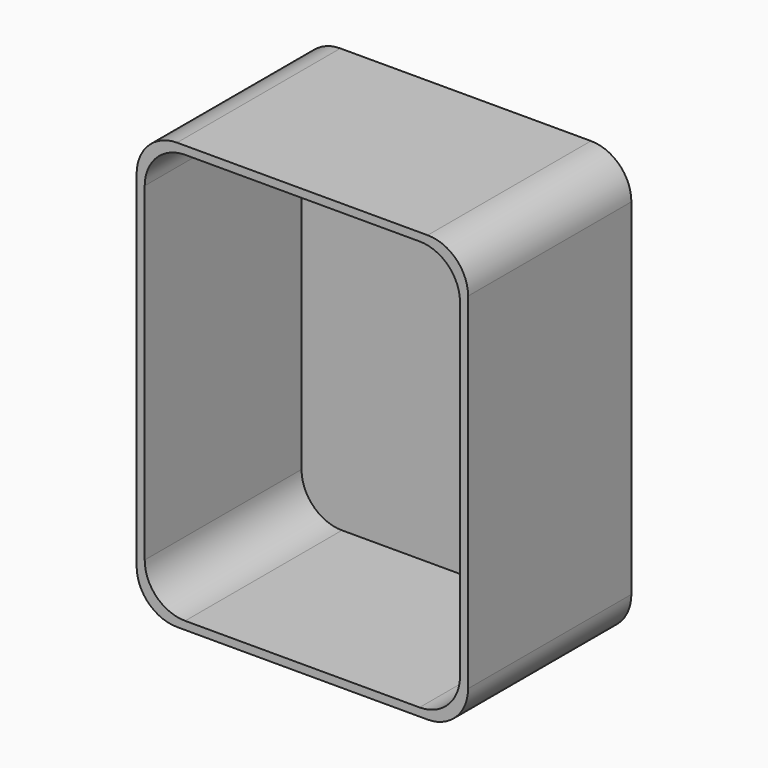
from build123d import *

# Parameters (mm, degrees)
BOX016_W     = 78
BOX016_H     = 50.5
BOX016_DEPTH = 101.5
FILLET018_R  = 10
BOX015_W     = 82
BOX015_H     = 50.5
BOX015_DEPTH = 105.5
FILLET015_R  = 10


with BuildPart() as innerboxcut001:
    # Box016 → Box016 (new body)
    with BuildSketch(Plane(origin=(78, 24, -13.75), x_dir=(-1, 0, 0), z_dir=(0, 0, 1))):
        with Locations((39, 25.25)):
            Rectangle(BOX016_W, BOX016_H)
    extrude(amount=BOX016_DEPTH)

    # Fillet018
    fillet018_edges = [innerboxcut001.edges().sort_by_distance(p)[0] for p in [
        (78, -1.25, 87.75),
        (78, -1.25, -13.75),
        (0, -1.25, 87.75),
        (0, -1.25, -13.75),
    ]]
    fillet(fillet018_edges, radius=FILLET018_R)


with BuildPart() as outershellbottom:
    # Box015 → Box015 (new body)
    with BuildSketch(Plane(origin=(80, 26, -15.75), x_dir=(-1, 0, 0), z_dir=(0, 0, 1))):
        with Locations((41, 25.25)):
            Rectangle(BOX015_W, BOX015_H)
    extrude(amount=BOX015_DEPTH)

    # Fillet015
    fillet015_edges = [outershellbottom.edges().sort_by_distance(p)[0] for p in [
        (80, 0.75, 89.75),
        (80, 0.75, -15.75),
        (-2, 0.75, 89.75),
        (-2, 0.75, -15.75),
    ]]
    fillet(fillet015_edges, radius=FILLET015_R)

    # Cut006: cut innerBoxCut001
    add(innerboxcut001.part, mode=Mode.SUBTRACT)


solid = outershellbottom.part
